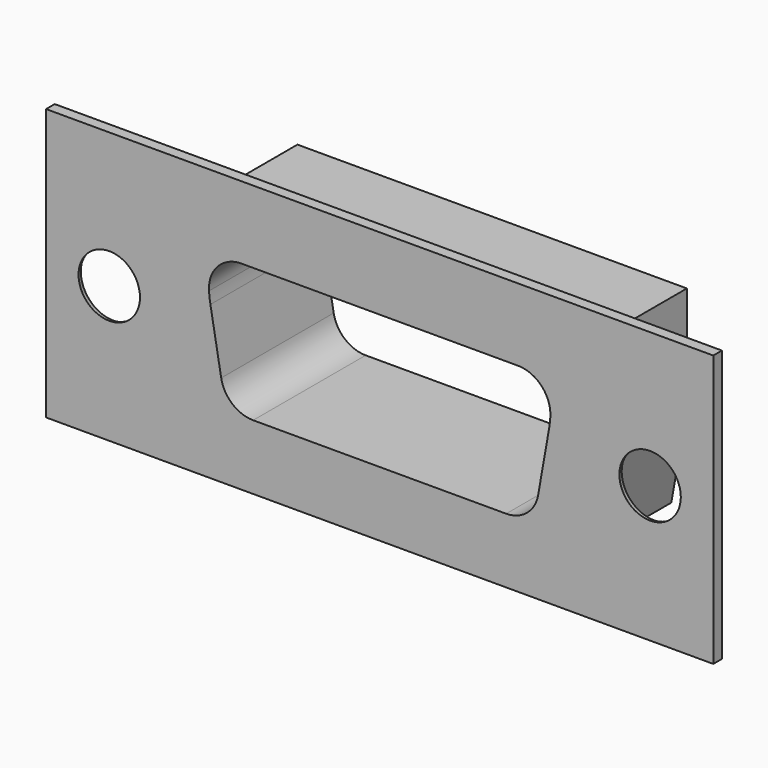
from build123d import *

# Parameters (mm, degrees)
BOX013_W          = 30.84
BOX013_H          = 6.5
BOX013_DEPTH      = 12.55
BOX014_W          = 6.5
BOX014_H          = 6
BOX014_DEPTH      = 12.55
BOX015_W          = 6.5
BOX015_H          = 6
BOX015_DEPTH      = 12.55
BOX016_W          = 15.8
BOX016_H          = 7
BOX016_DEPTH      = 6.2
BOX017_W          = 23
BOX017_H          = 6
BOX017_DEPTH      = 1.6
BOX018_W          = 19
BOX018_H          = 6
BOX018_DEPTH      = 2
CYLINDER004_R     = 1.42
CYLINDER004_DEPTH = 3
CYLINDER005_R     = 1.42
CYLINDER005_DEPTH = 3
CHAMFER_1_ANGLE   = 10
CHAMFER_1_SIZE    = 4.5
CHAMFER_2_ANGLE   = 10
CHAMFER_2_SIZE    = 4.5
FILLET_R          = 5
FILLET001_R       = 1.5
FILLET002_R       = 5
FILLET003_R       = 1.5
FILLET004_R       = 1.5
FILLET005_R       = 1.5
FILLET006_R       = 0.38
FILLET007_R       = 0.38
BOX031_W          = 1
BOX031_H          = 6
BOX031_DEPTH      = 10
BOX032_W          = 1
BOX032_H          = 6
BOX032_DEPTH      = 10


with BuildPart() as part:
    # Box013 → Box013 (join)
    with BuildSketch(Plane(origin=(-15.42, 19, 0), x_dir=(1, 0, 0), z_dir=(0, 0, 1))):
        with Locations((15.42, 3.25)):
            Rectangle(BOX013_W, BOX013_H)
    extrude(amount=BOX013_DEPTH)

    # Box014 → Box014 (cut)
    with BuildSketch(Plane(origin=(9, 19.5, 0), x_dir=(1, 0, 0), z_dir=(0, 0, 1))):
        with Locations((3.25, 3)):
            Rectangle(BOX014_W, BOX014_H)
    extrude(amount=BOX014_DEPTH, mode=Mode.SUBTRACT)

    # Box015 → Box015 (cut)
    with BuildSketch(Plane(origin=(-15.5, 19.5, 0), x_dir=(1, 0, 0), z_dir=(0, 0, 1))):
        with Locations((3.25, 3)):
            Rectangle(BOX015_W, BOX015_H)
    extrude(amount=BOX015_DEPTH, mode=Mode.SUBTRACT)

    # Box016 → Box016 (cut)
    with BuildSketch(Plane(origin=(-7.9, 19, 3), x_dir=(1, 0, 0), z_dir=(0, 0, 1))):
        with Locations((7.9, 3.5)):
            Rectangle(BOX016_W, BOX016_H)
    extrude(amount=BOX016_DEPTH, mode=Mode.SUBTRACT)

    # Box017 → Box017 (cut)
    with BuildSketch(Plane(origin=(-11.5, 19.5, 0), x_dir=(1, 0, 0), z_dir=(0, 0, 1))):
        with Locations((11.5, 3)):
            Rectangle(BOX017_W, BOX017_H)
    extrude(amount=BOX017_DEPTH, mode=Mode.SUBTRACT)

    # Box018 → Box018 (cut)
    with BuildSketch(Plane(origin=(-9.5, 19.5, 10.55), x_dir=(1, 0, 0), z_dir=(0, 0, 1))):
        with Locations((9.5, 3)):
            Rectangle(BOX018_W, BOX018_H)
    extrude(amount=BOX018_DEPTH, mode=Mode.SUBTRACT)

    # Cylinder004 → Cylinder004 (cut)
    with BuildSketch(Plane(origin=(12.5, 21, 6.3), x_dir=(1, 0, 0), z_dir=(0, -1, 0))):
        Circle(CYLINDER004_R)
    extrude(amount=CYLINDER004_DEPTH, mode=Mode.SUBTRACT)

    # Cylinder005 → Cylinder005 (cut)
    with BuildSketch(Plane(origin=(-12.5, 20, 6.3), x_dir=(1, 0, 0), z_dir=(0, -1, 0))):
        Circle(CYLINDER005_R)
    extrude(amount=CYLINDER005_DEPTH, mode=Mode.SUBTRACT)

    # Chamfer 1
    chamfer_1_edges = [part.edges().sort_by_distance(p)[0] for p in [
        (7.9, 22.25, 3),
    ]]
    chamfer_1_side = part.faces().sort_by_distance((7.9, 22.25, 6.1))[0]
    chamfer(chamfer_1_edges, length=CHAMFER_1_SIZE, angle=CHAMFER_1_ANGLE, reference=chamfer_1_side)

    # Chamfer 2
    chamfer_2_edges = [part.edges().sort_by_distance(p)[0] for p in [
        (-7.9, 22.25, 3),
    ]]
    chamfer_2_side = part.faces().sort_by_distance((-7.9, 22.25, 6.1))[0]
    chamfer(chamfer_2_edges, length=CHAMFER_2_SIZE, angle=CHAMFER_2_ANGLE, reference=chamfer_2_side)

    # Fillet
    fillet_edges = [part.edges().sort_by_distance(p)[0] for p in [
        (7.9, 22.25, 7.5),
    ]]
    fillet(fillet_edges, radius=FILLET_R)

    # Fillet001
    fillet001_edges = [part.edges().sort_by_distance(p)[0] for p in [
        (7.9, 22.25, 9.2),
    ]]
    fillet(fillet001_edges, radius=FILLET001_R)

    # Fillet002
    fillet002_edges = [part.edges().sort_by_distance(p)[0] for p in [
        (-7.9, 22.25, 7.5),
    ]]
    fillet(fillet002_edges, radius=FILLET002_R)

    # Fillet003
    fillet003_edges = [part.edges().sort_by_distance(p)[0] for p in [
        (-7.9, 22.25, 9.2),
    ]]
    fillet(fillet003_edges, radius=FILLET003_R)

    # Fillet004
    fillet004_edges = [part.edges().sort_by_distance(p)[0] for p in [
        (7.106529, 22.25, 3),
    ]]
    fillet(fillet004_edges, radius=FILLET004_R)

    # Fillet005
    fillet005_edges = [part.edges().sort_by_distance(p)[0] for p in [
        (-7.106529, 22.25, 3),
    ]]
    fillet(fillet005_edges, radius=FILLET005_R)

    # Cone → Cone (revolve, cut)
    with BuildSketch(Plane(origin=(12.5, 19.5, 6.3), x_dir=(1, 0, 0), z_dir=(0, 0, -1))):
        Polygon((0, 0), (2.42, 0), (1.32, 0.2), (0, 0.2), align=None)
    revolve(axis=Axis((12.5, 19.5, 6.3), (0, -1, 0)), mode=Mode.SUBTRACT)

    # Fillet006
    fillet006_edges = [part.edges().sort_by_distance(p)[0] for p in [
        (11.08, 19.318182, 6.3),
    ]]
    fillet(fillet006_edges, radius=FILLET006_R)

    # Cone001 → Cone001 (revolve, cut)
    with BuildSketch(Plane(origin=(-12.5, 19.5, 6.3), x_dir=(1, 0, 0), z_dir=(0, 0, -1))):
        Polygon((0, 0), (2.42, 0), (1.32, 0.2), (0, 0.2), align=None)
    revolve(axis=Axis((-12.5, 19.5, 6.3), (0, -1, 0)), mode=Mode.SUBTRACT)

    # Fillet007
    fillet007_edges = [part.edges().sort_by_distance(p)[0] for p in [
        (-13.92, 19.318182, 6.3),
    ]]
    fillet(fillet007_edges, radius=FILLET007_R)

    # Box031 → Box031 (cut)
    with BuildSketch(Plane(origin=(8, 19.5, 0), x_dir=(0.984808, 0, -0.173648), z_dir=(0.173648, 0, 0.984808))):
        with Locations((0.5, 3)):
            Rectangle(BOX031_W, BOX031_H)
    extrude(amount=BOX031_DEPTH, mode=Mode.SUBTRACT)

    # Box032 → Box032 (cut)
    with BuildSketch(Plane(origin=(-9, 19.5, 0), x_dir=(0.984808, 0, 0.173648), z_dir=(-0.173648, 0, 0.984808))):
        with Locations((0.5, 3)):
            Rectangle(BOX032_W, BOX032_H)
    extrude(amount=BOX032_DEPTH, mode=Mode.SUBTRACT)


solid = part.part
